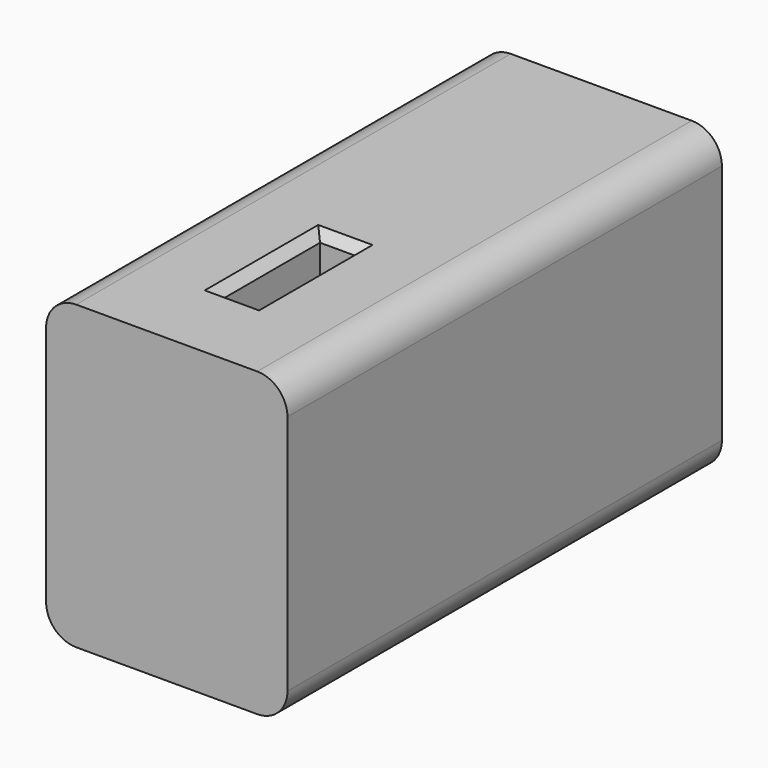
from build123d import *

# Parameters (mm, degrees)
SKETCH016_W     = 8
SKETCH016_H     = 18
SKETCH016_W_2   = 1.2
SKETCH016_H_2   = 4.1
PAD011_DEPTH    = 10
SKETCH017_R     = 2.5
POCKET009_DEPTH = 8
FILLET001_R     = 1
CHAMFER001_SIZE = 0.3
CHAMFER002_SIZE = 0.3


with BuildPart() as part:
    # Sketch016 → Pad011 (new body)
    with BuildSketch(Plane.XY):
        with Locations((0, 3.95)):
            Rectangle(SKETCH016_W, SKETCH016_H)
        Rectangle(SKETCH016_W_2, SKETCH016_H_2, mode=Mode.SUBTRACT)
    extrude(amount=PAD011_DEPTH)

    # Sketch017 (on Face1 of Pad011) → Pocket009 (cut)
    with BuildSketch(Plane(origin=(0, 12.95, 0), x_dir=(-1, 0, 0), z_dir=(0, 1, 0))):
        with Locations((0, 5)):
            Circle(SKETCH017_R)
    extrude(amount=-POCKET009_DEPTH, mode=Mode.SUBTRACT)

    # Fillet001
    fillet001_edges = [part.edges().sort_by_distance(p)[0] for p in [
        (4, 3.95, 0),
        (4, 3.95, 10),
        (-4, 3.95, 10),
        (-4, 3.95, 0),
    ]]
    fillet(fillet001_edges, radius=FILLET001_R)

    # Chamfer001
    chamfer001_edges = [part.edges().sort_by_distance(p)[0] for p in [
        (0, -2.05, 0),
        (0.6, 0, 0),
        (0, 2.05, 0),
        (-0.6, 0, 0),
    ]]
    chamfer(chamfer001_edges, length=CHAMFER001_SIZE)

    # Chamfer002
    chamfer002_edges = [part.edges().sort_by_distance(p)[0] for p in [
        (-0.6, 0, 10),
        (0, -2.05, 10),
        (0.6, 0, 10),
        (0, 2.05, 10),
    ]]
    chamfer(chamfer002_edges, length=CHAMFER002_SIZE)


solid = part.part
